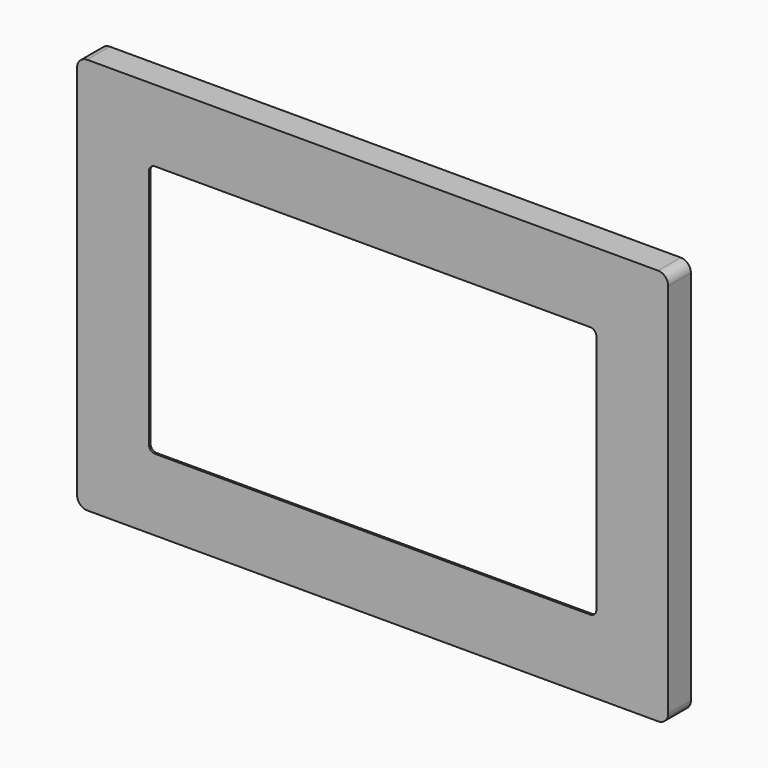
from build123d import *

# Parameters (mm, degrees)
F1_DEPTH  = 1
F2_DEPTH  = 14
F4_DEPTH  = 13
F7_DEPTH  = 18
F10_DEPTH = 13
F13_DEPTH = 1.5875
F16_DEPTH = 1.5
F18_R     = 1
F19_DEPTH = 10
F21_R     = 1.5
F22_DEPTH = 2
F24_W     = 7
F24_H     = 7
F25_DEPTH = 3
F27_R     = 1
F28_DEPTH = 9


with BuildPart() as f1:
    # F0 (on Front) → F1 (new body)
    with BuildSketch(Plane.XZ):
        with BuildLine():
            Line((141, 98), (-141, 98))
            ThreePointArc((-141, 98), (-144.535534, 96.535534), (-146, 93))
            Line((-146, 93), (-146, -93))
            ThreePointArc((-146, -93), (-144.535534, -96.535534), (-141, -98))
            Line((-141, -98), (141, -98))
            ThreePointArc((141, -98), (144.535534, -96.535534), (146, -93))
            Line((146, -93), (146, 93))
            ThreePointArc((146, 93), (144.535534, 96.535534), (141, 98))
        make_face()
        with BuildLine():
            ThreePointArc((-125, 76.5), (-124.12132, 78.62132), (-122, 79.5))
            Line((-122, 79.5), (122, 79.5))
            ThreePointArc((122, 79.5), (124.12132, 78.62132), (125, 76.5))
            Line((125, 76.5), (125, -76.5))
            ThreePointArc((125, -76.5), (124.12132, -78.62132), (122, -79.5))
            Line((122, -79.5), (-122, -79.5))
            ThreePointArc((-122, -79.5), (-124.12132, -78.62132), (-125, -76.5))
            Line((-125, -76.5), (-125, 76.5))
        make_face(mode=Mode.SUBTRACT)
        with BuildLine():
            Line((122, 79.5), (-122, 79.5))
            ThreePointArc((-122, 79.5), (-124.12132, 78.62132), (-125, 76.5))
            Line((-125, 76.5), (-125, -76.5))
            ThreePointArc((-125, -76.5), (-124.12132, -78.62132), (-122, -79.5))
            Line((-122, -79.5), (122, -79.5))
            ThreePointArc((122, -79.5), (124.12132, -78.62132), (125, -76.5))
            Line((125, -76.5), (125, 76.5))
            ThreePointArc((125, 76.5), (124.12132, 78.62132), (122, 79.5))
        make_face()
        with BuildLine():
            ThreePointArc((-110.5, 59.5), (-109.62132, 61.62132), (-107.5, 62.5))
            Line((-107.5, 62.5), (107.5, 62.5))
            ThreePointArc((107.5, 62.5), (109.62132, 61.62132), (110.5, 59.5))
            Line((110.5, 59.5), (110.5, -59.5))
            ThreePointArc((110.5, -59.5), (109.62132, -61.62132), (107.5, -62.5))
            Line((107.5, -62.5), (-107.5, -62.5))
            ThreePointArc((-107.5, -62.5), (-109.62132, -61.62132), (-110.5, -59.5))
            Line((-110.5, -59.5), (-110.5, 59.5))
        make_face(mode=Mode.SUBTRACT)
    extrude(amount=-F1_DEPTH)

    # F0 (on Front) → F2 (join)
    with BuildSketch(Plane.XZ):
        with BuildLine():
            Line((141, 98), (-141, 98))
            ThreePointArc((-141, 98), (-144.535534, 96.535534), (-146, 93))
            Line((-146, 93), (-146, -93))
            ThreePointArc((-146, -93), (-144.535534, -96.535534), (-141, -98))
            Line((-141, -98), (141, -98))
            ThreePointArc((141, -98), (144.535534, -96.535534), (146, -93))
            Line((146, -93), (146, 93))
            ThreePointArc((146, 93), (144.535534, 96.535534), (141, 98))
        make_face()
        with BuildLine():
            ThreePointArc((-125, 76.5), (-124.12132, 78.62132), (-122, 79.5))
            Line((-122, 79.5), (122, 79.5))
            ThreePointArc((122, 79.5), (124.12132, 78.62132), (125, 76.5))
            Line((125, 76.5), (125, -76.5))
            ThreePointArc((125, -76.5), (124.12132, -78.62132), (122, -79.5))
            Line((122, -79.5), (-122, -79.5))
            ThreePointArc((-122, -79.5), (-124.12132, -78.62132), (-125, -76.5))
            Line((-125, -76.5), (-125, 76.5))
        make_face(mode=Mode.SUBTRACT)
    extrude(amount=-F2_DEPTH)


with BuildPart() as f4:
    # F3 (on face) → F4 (new body)
    with BuildSketch(Plane(origin=(0, 14, 0), x_dir=(-1, 0, 0), z_dir=(0, 1, 0))):
        with BuildLine():
            ThreePointArc((50, 92.5), (49.12132, 94.62132), (47, 95.5))
            Line((47, 95.5), (-47, 95.5))
            ThreePointArc((-47, 95.5), (-49.12132, 94.62132), (-50, 92.5))
            Line((-50, 92.5), (-50, 66.5))
            ThreePointArc((-50, 66.5), (-49.12132, 64.37868), (-47, 63.5))
            Line((-47, 63.5), (47, 63.5))
            ThreePointArc((47, 63.5), (49.12132, 64.37868), (50, 66.5))
            Line((50, 66.5), (50, 92.5))
        make_face()
    extrude(amount=-F4_DEPTH)


with BuildPart() as f1_1:
    add(f1.part)

    # F5: cut F4
    add(f4.part, mode=Mode.SUBTRACT)


with BuildPart() as f7:
    # F6 (on face) → F7 (new body)
    with BuildSketch(Plane.XY.offset(-79.5)):
        with BuildLine():
            Line((1.5, 17), (-1.5, 17))
            Line((-1.5, 17), (-1.5, 12.5))
            ThreePointArc((-1.5, 12.5), (-1.06066, 11.43934), (0, 11))
            ThreePointArc((0, 11), (1.06066, 11.43934), (1.5, 12.5))
            Line((1.5, 12.5), (1.5, 17))
        make_face()
    extrude(amount=-F7_DEPTH)


with BuildPart() as f1_2:
    add(f1_1.part)

    # F8: cut F7
    add(f7.part, mode=Mode.SUBTRACT)


with BuildPart() as f10:
    # F9 (on face) → F10 (new body)
    with BuildSketch(Plane(origin=(0, 14, 0), x_dir=(-1, 0, 0), z_dir=(0, 1, 0))):
        with BuildLine():
            Line((-123.5, 56.5), (-125.5, 56.5))
            ThreePointArc((-125.5, 56.5), (-126.207107, 56.207107), (-126.5, 55.5))
            Line((-126.5, 55.5), (-126.5, 11.5))
            ThreePointArc((-126.5, 11.5), (-126.207107, 10.792893), (-125.5, 10.5))
            Line((-125.5, 10.5), (-123.5, 10.5))
            Line((-123.5, 10.5), (-123.5, 56.5))
        make_face()
    extrude(amount=-F10_DEPTH)


with BuildPart() as f1_3:
    add(f1_2.part)

    # F11: cut F10
    add(f10.part, mode=Mode.SUBTRACT)


with BuildPart() as f13:
    # F12 (on face) → F13 (new body)
    with BuildSketch(Plane(origin=(0, 14, 0), x_dir=(-1, 0, 0), z_dir=(0, 1, 0))):
        with BuildLine():
            Line((-140.5, -31.5), (-131.5, -31.5))
            ThreePointArc((-131.5, -31.5), (-129.37868, -30.62132), (-128.5, -28.5))
            Line((-128.5, -28.5), (-128.5, 7.5))
            ThreePointArc((-128.5, 7.5), (-129.37868, 9.62132), (-131.5, 10.5))
            Line((-131.5, 10.5), (-140.5, 10.5))
            ThreePointArc((-140.5, 10.5), (-142.62132, 9.62132), (-143.5, 7.5))
            Line((-143.5, 7.5), (-143.5, -28.5))
            ThreePointArc((-143.5, -28.5), (-142.62132, -30.62132), (-140.5, -31.5))
        make_face()
        with BuildLine():
            ThreePointArc((128.5, -28.5), (129.37868, -30.62132), (131.5, -31.5))
            Line((131.5, -31.5), (140.5, -31.5))
            ThreePointArc((140.5, -31.5), (142.62132, -30.62132), (143.5, -28.5))
            Line((143.5, -28.5), (143.5, 7.5))
            ThreePointArc((143.5, 7.5), (142.62132, 9.62132), (140.5, 10.5))
            Line((140.5, 10.5), (131.5, 10.5))
            ThreePointArc((131.5, 10.5), (129.37868, 9.62132), (128.5, 7.5))
            Line((128.5, 7.5), (128.5, -28.5))
        make_face()
    extrude(amount=-F13_DEPTH)


with BuildPart() as f1_4:
    add(f1_3.part)

    # F14: cut F13
    add(f13.part, mode=Mode.SUBTRACT)


with BuildPart() as f16:
    # F15 (on face) → F16 (new body)
    with BuildSketch(Plane(origin=(0, 12.4125, 0), x_dir=(-1, 0, 0), z_dir=(0, 1, 0))):
        with BuildLine():
            ThreePointArc((-131.5, -3.5), (-132.37868, -1.37868), (-134.5, -0.5))
            Line((-134.5, -0.5), (-137.5, -0.5))
            ThreePointArc((-137.5, -0.5), (-139.62132, -1.37868), (-140.5, -3.5))
            Line((-140.5, -3.5), (-140.5, -17.5))
            ThreePointArc((-140.5, -17.5), (-139.62132, -19.62132), (-137.5, -20.5))
            Line((-137.5, -20.5), (-134.5, -20.5))
            ThreePointArc((-134.5, -20.5), (-132.37868, -19.62132), (-131.5, -17.5))
            Line((-131.5, -17.5), (-131.5, -3.5))
        make_face()
        with BuildLine():
            Line((137.5, -0.5), (134.5, -0.5))
            ThreePointArc((134.5, -0.5), (132.37868, -1.37868), (131.5, -3.5))
            Line((131.5, -3.5), (131.5, -17.5))
            ThreePointArc((131.5, -17.5), (132.37868, -19.62132), (134.5, -20.5))
            Line((134.5, -20.5), (137.5, -20.5))
            ThreePointArc((137.5, -20.5), (139.62132, -19.62132), (140.5, -17.5))
            Line((140.5, -17.5), (140.5, -3.5))
            ThreePointArc((140.5, -3.5), (139.62132, -1.37868), (137.5, -0.5))
        make_face()
    extrude(amount=-F16_DEPTH)


with BuildPart() as f1_5:
    add(f1_4.part)

    # F17: cut F16
    add(f16.part, mode=Mode.SUBTRACT)


with BuildPart() as f19:
    # F18 (on face) → F19 (new body)
    with BuildSketch(Plane(origin=(0, 12.4125, 0), x_dir=(-1, 0, 0), z_dir=(0, 1, 0))):
        with Locations((-136, 5.5)):
            Circle(F18_R)
        with Locations((-136, -26.5)):
            Circle(F18_R)
        with Locations((136, 5.5)):
            Circle(F18_R)
        with Locations((136, -26.5)):
            Circle(F18_R)
    extrude(amount=-F19_DEPTH)


with BuildPart() as f1_6:
    add(f1_5.part)

    # F20: cut F19
    add(f19.part, mode=Mode.SUBTRACT)


with BuildPart() as f22:
    # F21 (on face) → F22 (new body)
    with BuildSketch(Plane(origin=(0, 12.4125, 0), x_dir=(-1, 0, 0), z_dir=(0, 1, 0))):
        with Locations((-136, 5.5)):
            Circle(F21_R)
        with Locations((-136, -26.5)):
            Circle(F21_R)
        with Locations((136, -26.5)):
            Circle(F21_R)
        with Locations((136, 5.5)):
            Circle(F21_R)
    extrude(amount=-F22_DEPTH)


with BuildPart() as f1_7:
    add(f1_6.part)

    # F23: cut F22
    add(f22.part, mode=Mode.SUBTRACT)


with BuildPart() as f25:
    # F24 (on face) → F25 (new body)
    with BuildSketch(Plane(origin=(0, 14, 0), x_dir=(-1, 0, 0), z_dir=(0, 1, 0))):
        with Locations((-68.5, 83)):
            Rectangle(F24_W, F24_H)
        with Locations((68.5, 83)):
            Rectangle(F24_W, F24_H)
        with Locations((-68.5, -83)):
            Rectangle(F24_W, F24_H)
        with Locations((68.5, -83)):
            Rectangle(F24_W, F24_H)
    extrude(amount=-F25_DEPTH)


with BuildPart() as f1_8:
    add(f1_7.part)

    # F26: cut F25
    add(f25.part, mode=Mode.SUBTRACT)


with BuildPart() as f28:
    # F27 (on face) → F28 (new body)
    with BuildSketch(Plane(origin=(0, 11, 0), x_dir=(-1, 0, 0), z_dir=(0, 1, 0))):
        with Locations((-68.5, 83)):
            Circle(F27_R)
        with Locations((68.5, 83)):
            Circle(F27_R)
        with Locations((-68.5, -83)):
            Circle(F27_R)
        with Locations((68.5, -83)):
            Circle(F27_R)
    extrude(amount=-F28_DEPTH)


with BuildPart() as f1_9:
    add(f1_8.part)

    # F29: cut F28
    add(f28.part, mode=Mode.SUBTRACT)


solid = f1_9.part
